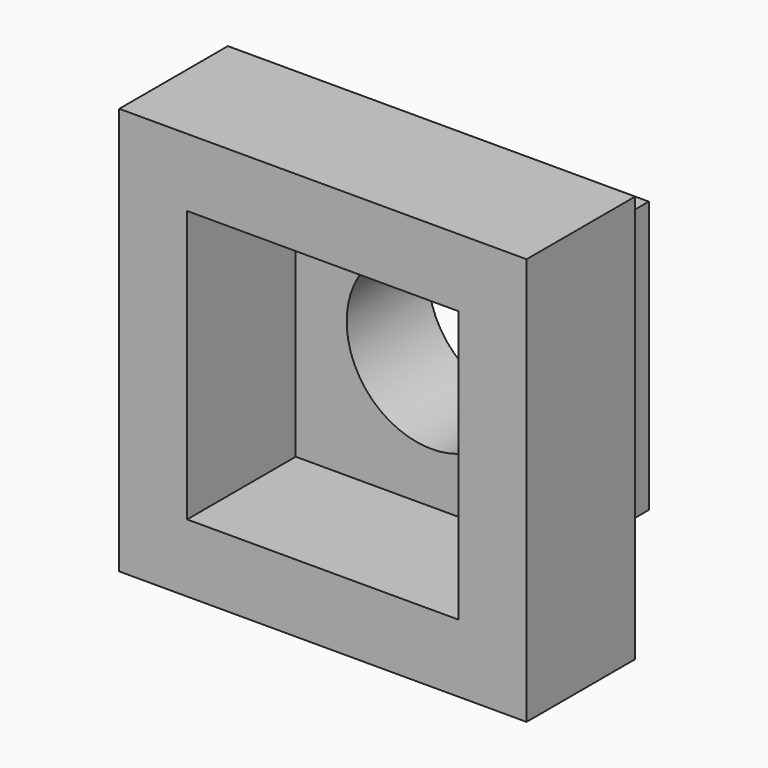
from build123d import *

# Parameters (mm, degrees)
F0_W     = 101.6
F0_H     = 101.6
F0_R     = 31.75
F1_DEPTH = 38.1
F0_W_2   = 152.4
F0_H_2   = 152.4
F2_DEPTH = 50.8


with BuildPart() as f1:
    # F0 (on Front) → F1 (new body)
    with BuildSketch(Plane.XZ):
        Rectangle(F0_W, F0_H)
        Circle(F0_R, mode=Mode.SUBTRACT)
    extrude(amount=-F1_DEPTH)


with BuildPart() as f2:
    # F0 (on Front) → F2 (new body)
    with BuildSketch(Plane.XZ):
        Rectangle(F0_W_2, F0_H_2)
        Rectangle(F0_W, F0_H, mode=Mode.SUBTRACT)
    extrude(amount=F2_DEPTH)


solid = Compound([f1.part, f2.part])
